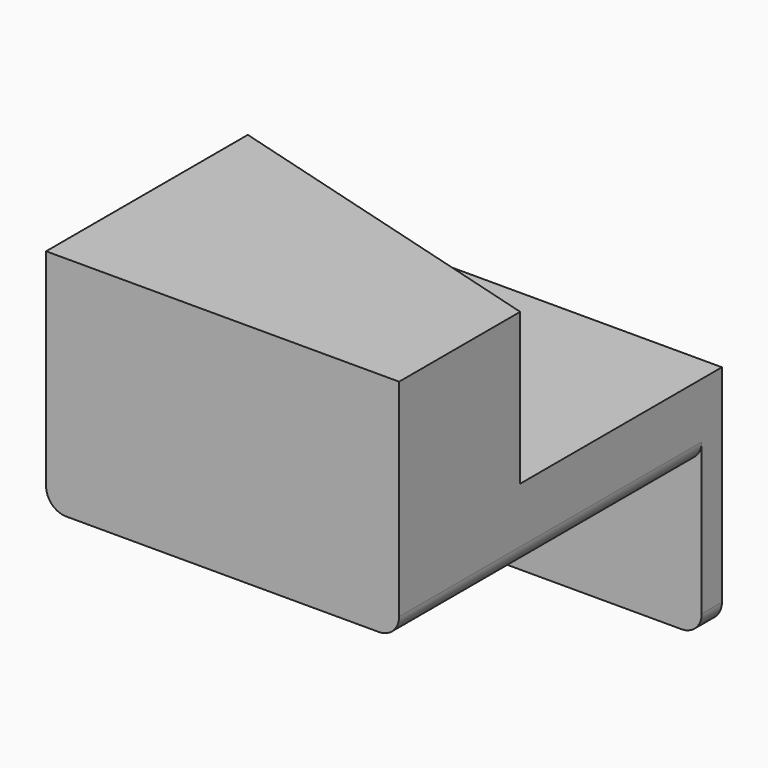
from build123d import *

# Parameters (mm, degrees)
F1_DEPTH = 38.1
F2_W     = 88.9
F2_H     = 101.6
F3_DEPTH = 19.05
F4_W     = 88.9
F4_H     = 6.35
F5_DEPTH = 38.1
F8_R     = 5.08


with BuildPart() as f1:
    # F0 (on Top) → F1 (new body)
    with BuildSketch(Plane.XY):
        Polygon((-31.983944577, 23.2039450469), (-31.983944577, -40.2960549531), (56.916055423, -40.2960549531), (56.916055423, -2.1960549531), align=None)
    extrude(amount=F1_DEPTH)

    # F2 (on face) → F3 (join)
    with BuildSketch(Plane.XY.offset(38.1)):
        with Locations((12.466055423, 10.5039450469)):
            Rectangle(F2_W, F2_H)
    extrude(amount=F3_DEPTH)

    # F4 (on face) → F5 (join)
    with BuildSketch(Plane.XY.offset(57.15)):
        with Locations((12.466055423, 58.1289450469)):
            Rectangle(F4_W, F4_H)
    extrude(amount=F5_DEPTH)


with BuildPart() as f6_1:
    # F6: instance of F1
    add(f1.part.mirror(Plane.XY))

    # F8
    f8_edges = [f6_1.edges().sort_by_distance(p)[0] for p in [
        (56.916055, 7.328945, -57.15),
        (-31.983945, 7.328945, -57.15),
        (56.916055, 58.128945, -95.25),
        (-31.983945, 58.128945, -95.25),
    ]]
    fillet(f8_edges, radius=F8_R)


solid = f6_1.part
